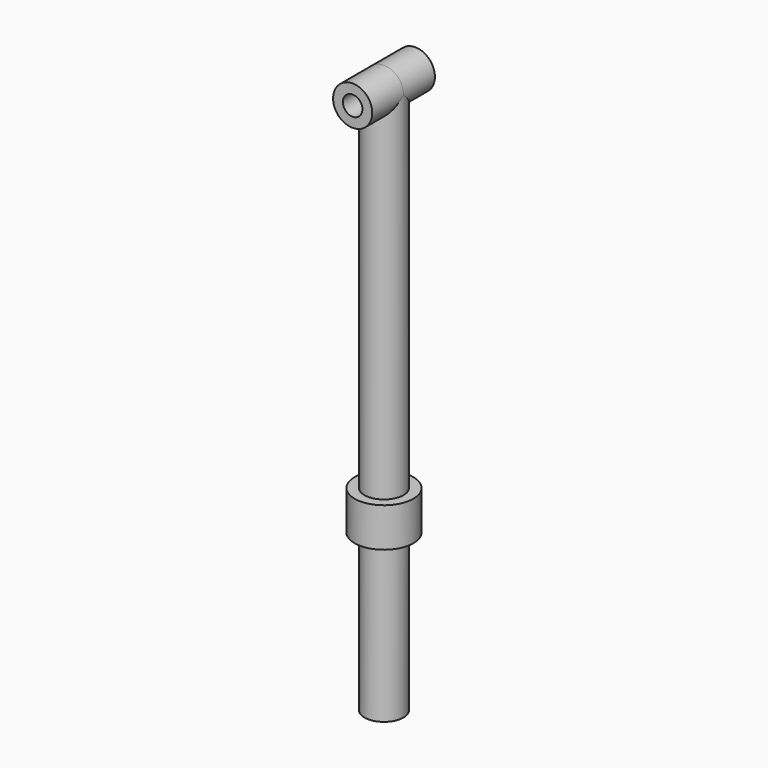
from build123d import *

# Parameters (mm, degrees)
F0_R          = 12.7
F1_DEPTH      = 330.2
F1_DEPTH_BACK = 25.4
F3_R          = 19.05
F4_DEPTH      = 25.4
F5_R          = 12.7
F6_DEPTH      = 25.4
F6_DEPTH_BACK = 25.4
F7_R          = 6.35
F8_DEPTH      = 25.401
F8_DEPTH_BACK = 25.401


with BuildPart() as f1:
    # F0 (on Top) → F1 (new body, two sides)
    with BuildSketch(Plane.XY) as f1_sk:
        Circle(F0_R)
    extrude(amount=-F1_DEPTH)
    extrude(f1_sk.sketch, amount=F1_DEPTH_BACK)

    # F3 (on offset) → F4 (join)
    with BuildSketch(Plane.XY.offset(-203.2)):
        Circle(F3_R)
    extrude(amount=-F4_DEPTH)

    # F5 (on Front) → F6 (join, two sides)
    with BuildSketch(Plane.XZ) as f6_sk:
        with Locations((0, 25.4)):
            Circle(F5_R)
    extrude(amount=F6_DEPTH)
    extrude(f6_sk.sketch, amount=-F6_DEPTH_BACK)

    # F7 (on Front) → F8 (cut, two sides)
    with BuildSketch(Plane.XZ) as f8_sk:
        with Locations((0, 25.4)):
            Circle(F7_R)
    extrude(amount=-F8_DEPTH, mode=Mode.SUBTRACT)
    extrude(f8_sk.sketch, amount=F8_DEPTH_BACK, mode=Mode.SUBTRACT)


solid = f1.part
